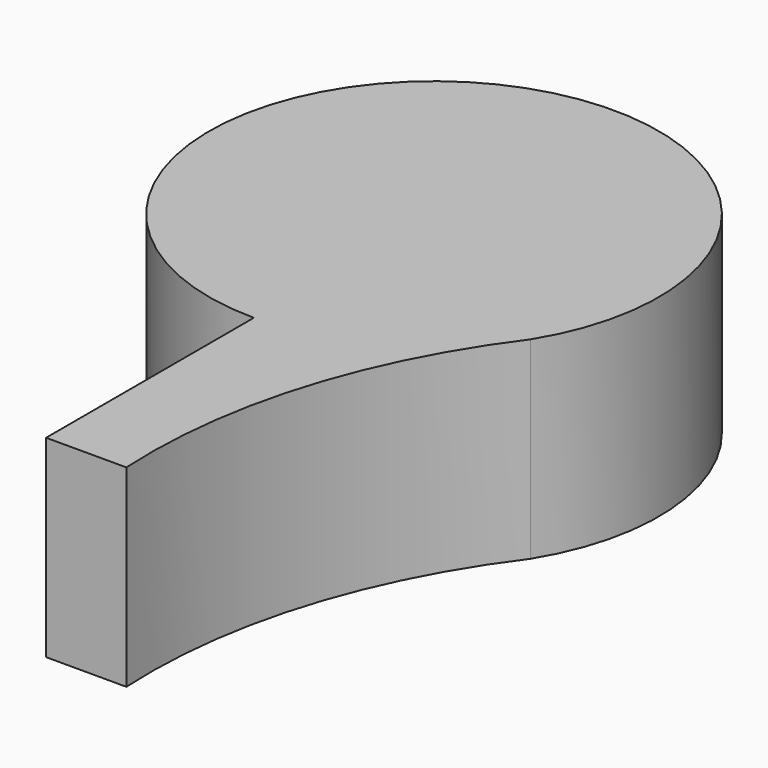
from build123d import *

# Parameters (mm, degrees)
F1_DEPTH = 6


with BuildPart() as f1:
    # F0 (on Top) → F1 (new body)
    with BuildSketch(Plane.XY):
        with BuildLine():
            ThreePointArc((5.134526, -3.692549), (-4.196263, 6.084372), (-0.812329, -7))
            Line((-0.812329, -7), (-0.812329, -15.066434))
            Line((-0.812329, -15.066434), (1.681227, -15.066434))
            ThreePointArc((1.681227, -15.066434), (2.405059, -9.075019), (5.134526, -3.692549))
        make_face()
    extrude(amount=F1_DEPTH)


solid = f1.part
